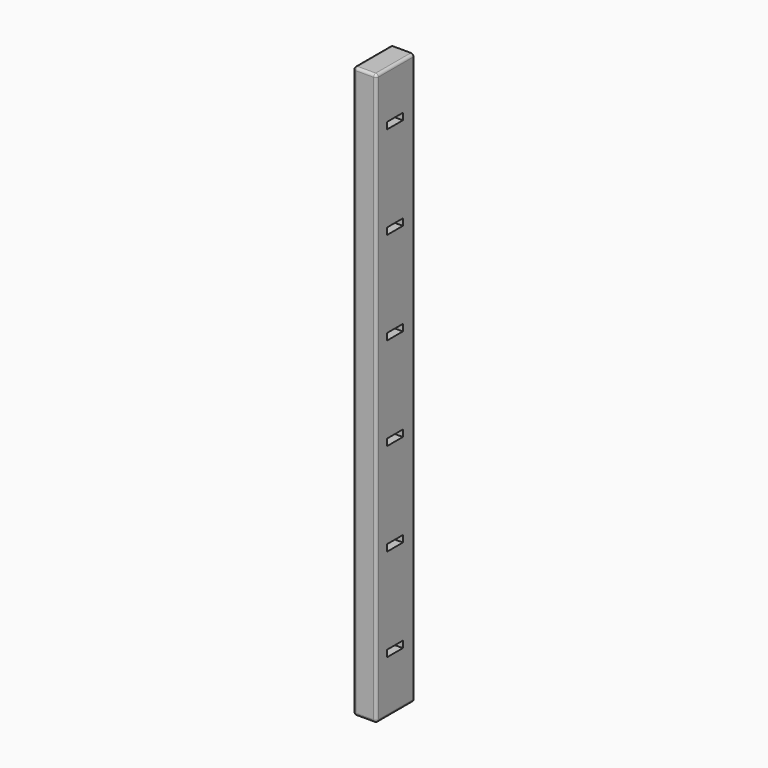
from build123d import *

# Parameters (mm, degrees)
F0_W     = 44.45
F0_H     = 1092.2
F1_DEPTH = 88.9
F2_W     = 38.1
F2_H     = 12.7
F3_DEPTH = 44.451
F4_R     = 5.08


with BuildPart() as f1:
    # F0 (on Front) → F1 (new body)
    with BuildSketch(Plane.XZ):
        with Locations((-22.225, 216.568415)):
            Rectangle(F0_W, F0_H)
    extrude(amount=F1_DEPTH)

    # F2 (on face) → F3 (cut, through all)
    with BuildSketch(Plane(origin=(-44.45, 0, 0), x_dir=(0, -1, 0), z_dir=(-1, 0, 0))):
        with Locations((44.45, 667.418415)):
            Rectangle(F2_W, F2_H)
        with Locations((44.45, -43.781585)):
            Rectangle(F2_W, F2_H)
        with Locations((44.45, 134.018415)):
            Rectangle(F2_W, F2_H)
        with Locations((44.45, 311.818415)):
            Rectangle(F2_W, F2_H)
        with Locations((44.45, -221.581585)):
            Rectangle(F2_W, F2_H)
        with Locations((44.45, 489.618415)):
            Rectangle(F2_W, F2_H)
    extrude(amount=-F3_DEPTH, mode=Mode.SUBTRACT)

    # F4
    f4_edges = [f1.edges().sort_by_distance(p)[0] for p in [
        (-44.45, -88.9, 216.568415),
        (0, -88.9, 216.568415),
        (-22.225, -88.9, 762.668415),
        (0, -44.45, 762.668415),
        (-44.45, -44.45, 762.668415),
        (-22.225, -88.9, -329.531585),
        (0, -44.45, -329.531585),
        (-44.45, -44.45, -329.531585),
    ]]
    fillet(f4_edges, radius=F4_R)


solid = f1.part
